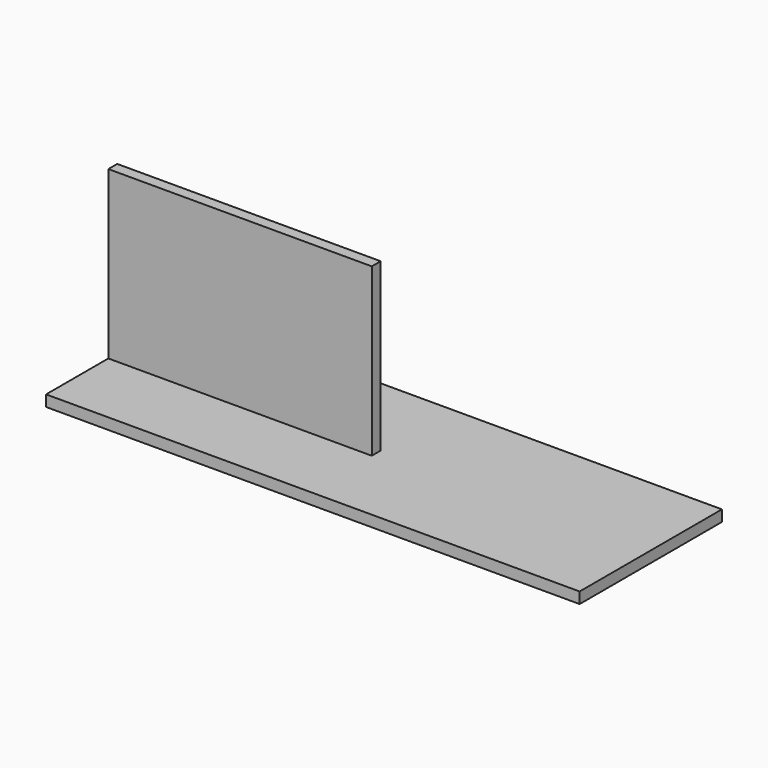
from build123d import *

# Parameters (mm, degrees)
SKETCH_W      = 118.5
SKETCH_H      = 75
PAD_DEPTH     = 5
SKETCH001_W   = 20
SKETCH001_H   = 5
PAD001_DEPTH  = 4.8
SKETCH002_W   = 240
SKETCH002_H   = 80
SKETCH002_W_2 = 20
SKETCH002_H_2 = 5
PAD002_DEPTH  = 5


with BuildPart() as body:
    # Sketch → Pad (new body)
    with BuildSketch(Plane.XZ):
        with Locations((59.25, 37.5)):
            Rectangle(SKETCH_W, SKETCH_H)
    extrude(amount=PAD_DEPTH)

    # Sketch001 (on Face1 of Pad) → Pad001 (join)
    with BuildSketch(Plane(origin=(0, 0, 0), x_dir=(1, 0, 0), z_dir=(0, 0, -1))):
        with Locations((25, 2.5)):
            Rectangle(SKETCH001_W, SKETCH001_H)
        with Locations((93.5, 2.5)):
            Rectangle(SKETCH001_W, SKETCH001_H)
    extrude(amount=PAD001_DEPTH)


with BuildPart() as body001:
    # Sketch002 → Pad002 (new body)
    with BuildSketch(Plane.XY):
        with Locations((120, 0)):
            Rectangle(SKETCH002_W, SKETCH002_H)
        with Locations((25, -2.5)):
            Rectangle(SKETCH002_W_2, SKETCH002_H_2, mode=Mode.SUBTRACT)
        with Locations((93.5, -2.5)):
            Rectangle(SKETCH002_W_2, SKETCH002_H_2, mode=Mode.SUBTRACT)
    extrude(amount=-PAD002_DEPTH)


solid = Compound([body.part, body001.part])
